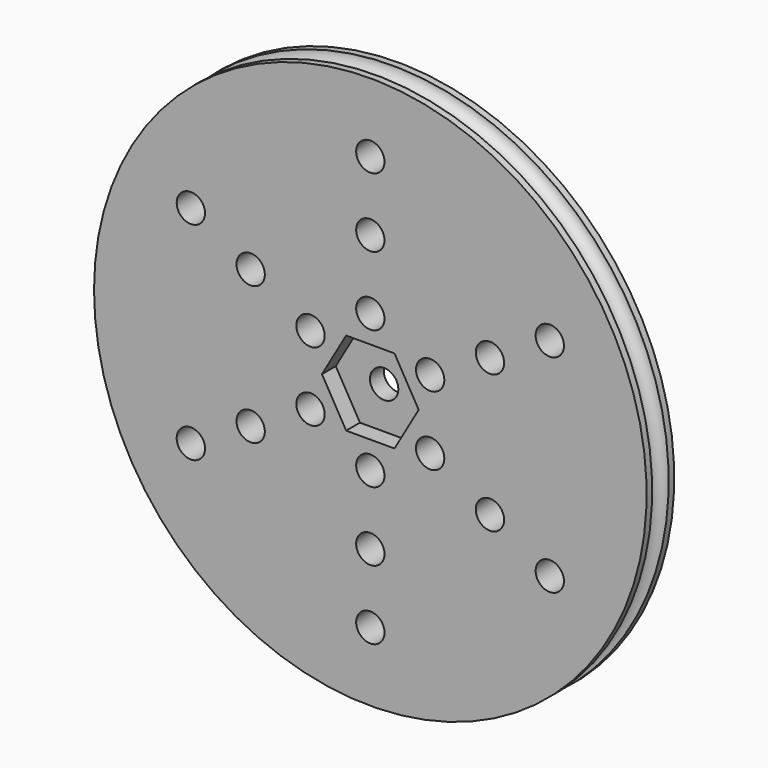
from build123d import *

# Parameters (mm, degrees)
SKETCH001_R        = 2.05
POCKET_DEPTH       = 231.496034
POLARPATTERN_COUNT = 6
POCKET001_DEPTH    = 2.5


with BuildPart() as part:
    # Sketch → Revolution (revolve)
    with BuildSketch(Plane.XY):
        with BuildLine():
            Line((-2.05, 2.5), (-2.05, -2.5))
            Line((-2.05, -2.5), (-40, -2.5))
            Line((-40, -2.5), (-40, -1.5))
            ThreePointArc((-40, -1.5), (-38.5, 0), (-40, 1.5))
            Line((-40, 1.5), (-40, 2.5))
            Line((-40, 2.5), (-2.05, 2.5))
        make_face()
    revolve(axis=Axis((0, 0, 0), (0, 1, 0)))

    # Sketch001 → Pocket (cut, through all)
    with BuildSketch(Plane.XZ.offset(2.5)):
        with Locations((0, 10)):
            Circle(SKETCH001_R)
        with Locations((0, 20)):
            Circle(SKETCH001_R)
        with Locations((0, 30)):
            Circle(SKETCH001_R)
    pocket = extrude(amount=-POCKET_DEPTH, mode=Mode.SUBTRACT)

    # PolarPattern: Pocket ×6 about axis
    polarpattern_axis = Axis((0, -2.5, 0), (0, -1, 0))
    for i in range(1, POLARPATTERN_COUNT):
        add(pocket.rotate(polarpattern_axis, i * 360 / POLARPATTERN_COUNT), mode=Mode.SUBTRACT)

    # Sketch002 → Pocket001 (cut)
    with BuildSketch(Plane.XZ.offset(2.5)):
        Polygon((3.5, -6.062178), (7, 0), (3.5, 6.062178), (-3.5, 6.062178), (-7, 0), (-3.5, -6.062178), align=None)
    extrude(amount=-POCKET001_DEPTH, mode=Mode.SUBTRACT)


solid = part.part
